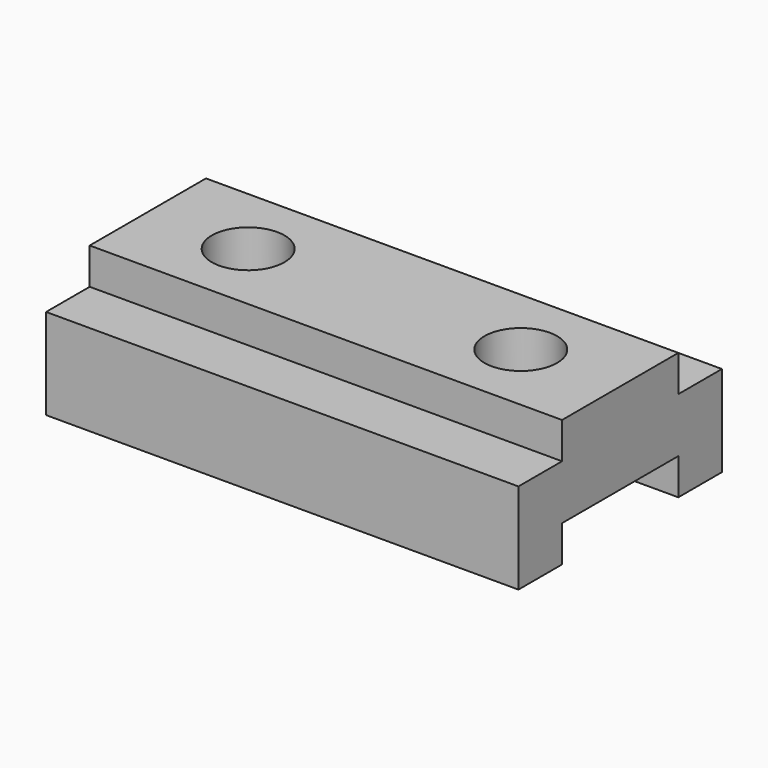
from build123d import *

# Parameters (mm, degrees)
F0_W      = 165.1
F0_H      = 44.45
F1_DEPTH  = 88.9
F2_W      = 19.05
F2_H      = 12.7
F3_DEPTH  = 165.101
F4_W      = 19.05
F4_H      = 12.7
F5_DEPTH  = 165.101
F7_DEPTH  = 165.101
F9_R      = 12.7
F10_DEPTH = 44.451


with BuildPart() as f1:
    # F0 (on Front) → F1 (new body)
    with BuildSketch(Plane.XZ):
        with Locations((82.55, 22.225)):
            Rectangle(F0_W, F0_H)
    extrude(amount=F1_DEPTH)

    # F2 (on face) → F3 (cut, through all)
    with BuildSketch(Plane.YZ.offset(165.1)):
        with Locations((-79.375, 38.1)):
            Rectangle(F2_W, F2_H)
    extrude(amount=-F3_DEPTH, mode=Mode.SUBTRACT)

    # F4 (on face) → F5 (cut, through all)
    with BuildSketch(Plane.YZ.offset(165.1)):
        with Locations((-9.525, 38.1)):
            Rectangle(F4_W, F4_H)
    extrude(amount=-F5_DEPTH, mode=Mode.SUBTRACT)

    # F6 (on face) → F7 (cut, through all)
    with BuildSketch(Plane.YZ.offset(165.1)):
        Polygon((-69.85, 0), (-44.45, 0), (-19.05, 0), (-19.05, 12.7), (-69.85, 12.7), align=None)
    extrude(amount=-F7_DEPTH, mode=Mode.SUBTRACT)

    # F9 (on face) → F10 (cut, through all)
    with BuildSketch(Plane.XY.offset(44.45)):
        with Locations((34.996487, -44.358376)):
            Circle(F9_R)
        with Locations((130.286753, -44.358376)):
            Circle(F9_R)
    extrude(amount=-F10_DEPTH, mode=Mode.SUBTRACT)


solid = f1.part
